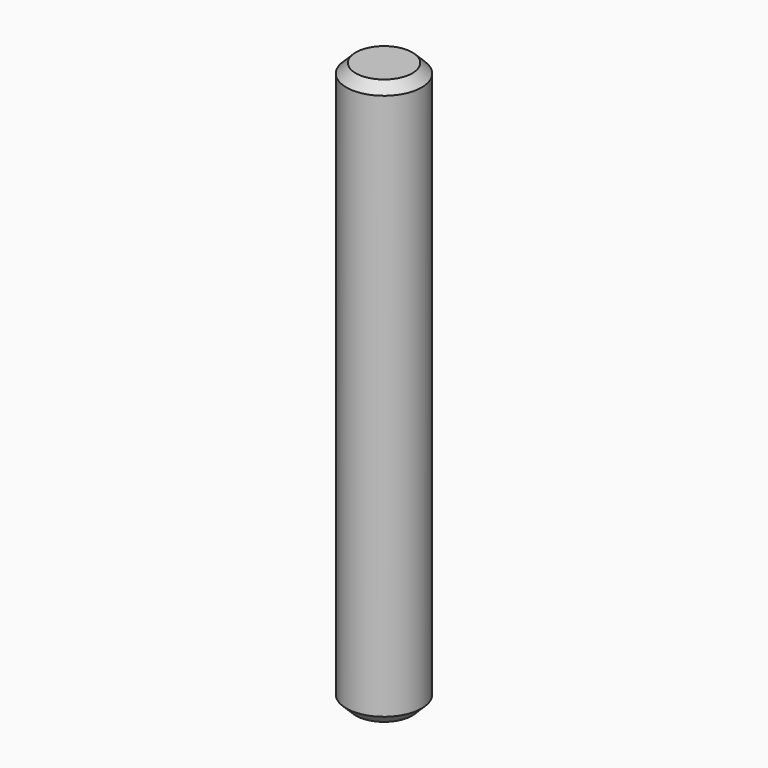
from build123d import *

# Parameters (mm, degrees)
F0_R     = 2
F1_DEPTH = 15
F2_SIZE  = 0.5


with BuildPart() as f1:
    # F0 (on Top) → F1 (new body, symmetric)
    with BuildSketch(Plane.XY):
        Circle(F0_R)
    extrude(amount=F1_DEPTH, both=True)

    # F2
    f2_edges = [f1.edges().sort_by_distance(p)[0] for p in [
        (-2, 0, 15),
        (-2, 0, -15),
    ]]
    chamfer(f2_edges, length=F2_SIZE)


solid = f1.part
